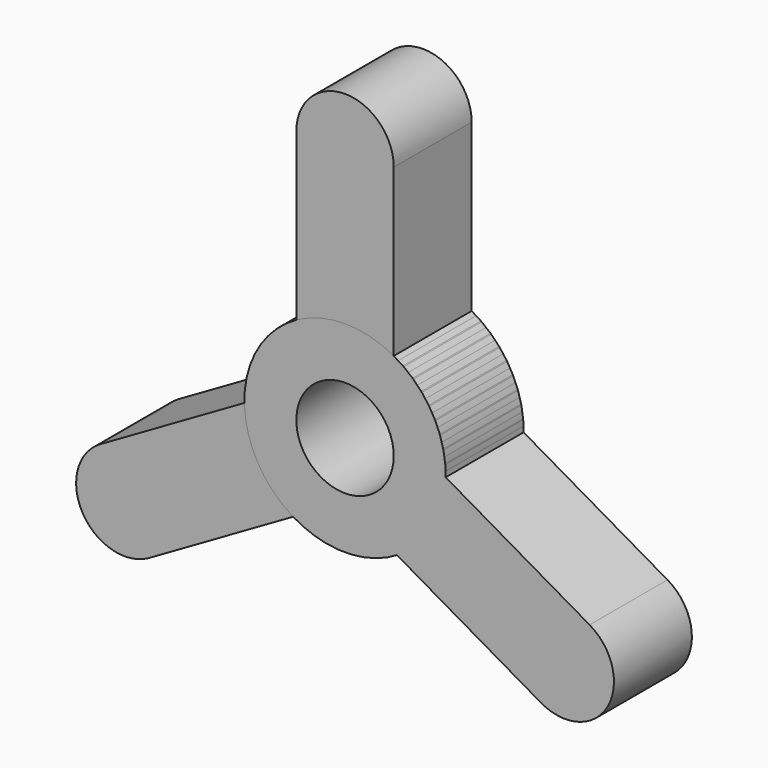
from build123d import *

# Parameters (mm, degrees)
F0_R     = 15.5
F0_R_2   = 7.5
F1_DEPTH = 15
F3_DEPTH = 15
F4_COUNT = 3


with BuildPart() as f1:
    # F0 (on Front) → F1 (new body)
    with BuildSketch(Plane.XZ):
        Circle(F0_R)
        Circle(F0_R_2, mode=Mode.SUBTRACT)
    extrude(amount=F1_DEPTH)

    # F2 (on Front) → F3 (join, through all)
    with BuildSketch(Plane.XZ):
        with BuildLine():
            ThreePointArc((7.5, 39.156411), (0, 46.656411), (-7.5, 39.156411))
            Line((-7.5, 39.156411), (-7.5, 13.56466))
            ThreePointArc((-7.5, 13.56466), (0, 15.5), (7.5, 13.56466))
            Line((7.5, 13.56466), (7.5, 39.156411))
        make_face()
    extrude(amount=F3_DEPTH)


with BuildPart() as f4_1:
    # F4: instance of F1
    add(f1.part.rotate(Axis((0, -15, 0), (0, -1, 0)), 1 * 360 / F4_COUNT))


with BuildPart() as f4_2:
    # F4: instance of F1
    add(f1.part.rotate(Axis((0, -15, 0), (0, -1, 0)), 2 * 360 / F4_COUNT))


solid = Compound([f1.part, f4_1.part, f4_2.part])
